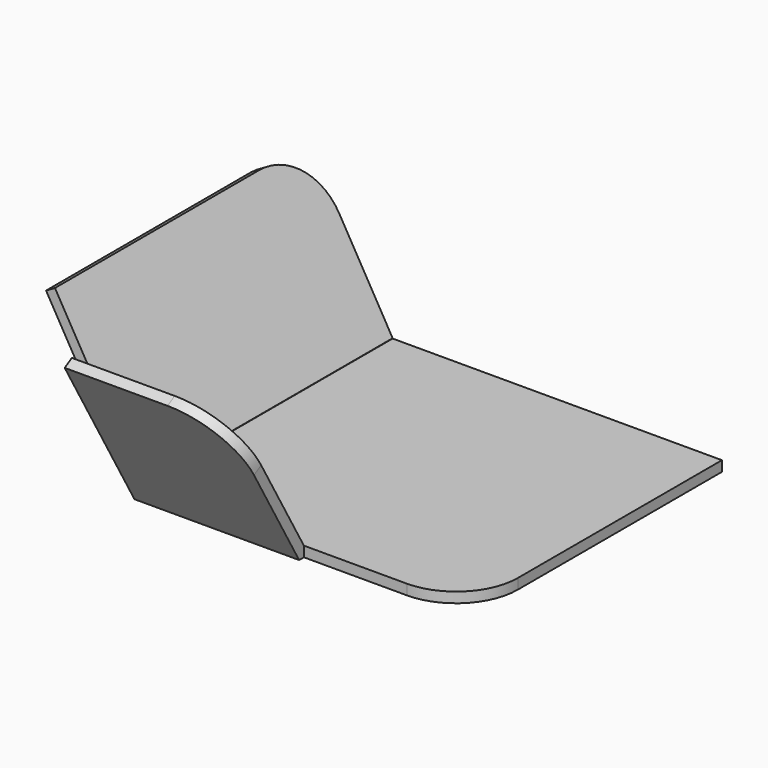
from build123d import *

# Parameters (mm, degrees)
F0_W      = 152.4
F0_H      = 165.1
F1_DEPTH  = 50.8
F3_DEPTH  = 101.6
F5_DEPTH  = 165.101
F7_DEPTH  = 25.4
F8_W      = 5.535897017
F8_H      = 67.31
F9_DEPTH  = 48.222235943
F11_DEPTH = 25.4
F13_DEPTH = 25.4
F14_W     = 60.9961288601
F14_H     = 11.3769355246
F15_DEPTH = 50.8


with BuildPart() as f1:
    # F0 (on Top) → F1 (new body)
    with BuildSketch(Plane.XY):
        with Locations((-76.2, 82.55)):
            Rectangle(F0_W, F0_H)
    extrude(amount=F1_DEPTH)

    # F2 (on face) → F3 (cut)
    with BuildSketch(Plane.YZ):
        Polygon((0, 0), (65.532, 0), (38.608, 46.633735943), (41.357630657, 48.221235943), (67.3650871047, 3.175), (165.1, 3.175), (165.1, 50.8), (0, 50.8), align=None)
    extrude(amount=-F3_DEPTH, mode=Mode.SUBTRACT)

    # F4 (on face) → F5 (cut, through all)
    with BuildSketch(Plane.XZ):
        Polygon((-127.552369343, 48.221235943), (-101.6, 3.2704136641), (-101.6, 50.8), (-152.4, 50.8), (-152.4, 0), (-103.378, 0), (-130.302, 46.633735943), align=None)
    extrude(amount=-F5_DEPTH, mode=Mode.SUBTRACT)

    # F6 (on face) → F7 (cut)
    with BuildSketch(Plane(origin=(-74.783869343, 0, -43.1764870962), x_dir=(0, 1, 0), z_dir=(0.8660254038, 0, 0.5))):
        with BuildLine():
            Line((165.1, 105.537), (146.05, 105.537))
            ThreePointArc((146.05, 105.537), (159.5203841816, 99.9573841816), (165.1, 86.487))
            Line((165.1, 86.487), (165.1, 105.537))
        make_face()
        Polygon((67.31, 105.537), (0, 105.537), (0, 53.632261314), (63.6438257906, 53.632261314), (67.31, 53.632261314), align=None)
    extrude(amount=-F7_DEPTH, mode=Mode.SUBTRACT)

    # F8 (on face) → F9 (cut, through all)
    with BuildSketch(Plane(origin=(0, 0, 0), x_dir=(1, 0, 0), z_dir=(0, 0, -1))):
        with Locations((-106.1459485085, -33.655)):
            Rectangle(F8_W, F8_H)
        Polygon((-101.6, -65.532), (-101.6, 0), (-103.378, 0), (-103.378, -67.31), (-101.6, -67.31), align=None)
    extrude(amount=-F9_DEPTH, mode=Mode.SUBTRACT)

    # F10 (on face) → F11 (cut)
    with BuildSketch(Plane(origin=(0, 51.898630657, 29.9636883804), x_dir=(-1, 0, 0), z_dir=(0, 0.8660254038, 0.5))):
        with BuildLine():
            ThreePointArc((50.8, 2.032), (56.3796158184, 15.5023841816), (69.85, 21.082))
            Line((69.85, 21.082), (0, 21.082))
            Line((0, 21.082), (0, -30.9329128953))
            Line((0, -30.9329128953), (50.8, -30.9329128953))
            Line((50.8, -30.9329128953), (50.8, 2.032))
        make_face()
    extrude(amount=-F11_DEPTH, mode=Mode.SUBTRACT)

    # F12 (on face) → F13 (cut)
    with BuildSketch(Plane.XY.offset(3.175)):
        with BuildLine():
            Line((0, 67.3650871047), (0, 86.4150871047))
            ThreePointArc((0, 86.4150871047), (-5.5796158184, 72.9447029231), (-19.05, 67.3650871047))
            Line((-19.05, 67.3650871047), (0, 67.3650871047))
        make_face()
    extrude(amount=-F13_DEPTH, mode=Mode.SUBTRACT)

    # F14 (on face) → F15 (cut)
    with BuildSketch(Plane.XY.offset(3.175)):
        with Locations((-20.3019355699, 61.6766193424)):
            Rectangle(F14_W, F14_H)
    extrude(amount=-F15_DEPTH, mode=Mode.SUBTRACT)


solid = f1.part
